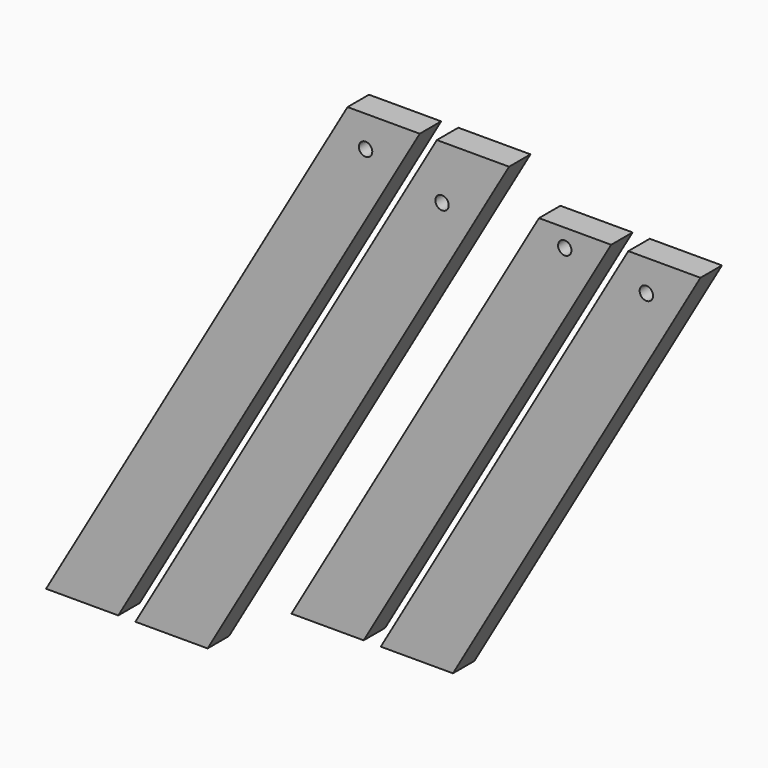
from build123d import *

# Parameters (mm, degrees)
F0_R      = 9.525
F1_DEPTH  = 38.1
F3_DEPTH  = 38.1
F4_R      = 9.525
F5_DEPTH  = 38.1
F6_R      = 9.525
F7_DEPTH  = 38.1
F9_DEPTH  = 38.1
F10_R     = 9.525
F11_DEPTH = 38.1


with BuildPart() as f1:
    # F0 (on Front) → F1 (new body)
    with BuildSketch(Plane.XZ):
        Polygon((-25.6632194655, 44.45), (-454.2882194655, -697.9502773942), (-351.6353416036, -697.9502773942), (76.9896583964, 44.45), align=None)
        Circle(F0_R, mode=Mode.SUBTRACT)
        Circle(F0_R)
    extrude(amount=-F1_DEPTH)


with BuildPart() as f2_1:
    # F2: copy of F1
    add(f1.part.moved(Location((127, 0, 0))))

    # F4 (on face) → F5 (cut)
    with BuildSketch(Plane.XZ):
        with Locations((108.6691289532, -31.75)):
            Circle(F4_R)
    extrude(amount=-F5_DEPTH, mode=Mode.SUBTRACT)


with BuildPart() as f1_1:
    add(f1.part)

    # F0 (on Front) → F3 (cut, through all)
    with BuildSketch(Plane.XZ):
        Circle(F0_R)
    extrude(amount=-F3_DEPTH, mode=Mode.SUBTRACT)


with BuildPart() as f7:
    # F6 (on Front) → F7 (new body)
    with BuildSketch(Plane.XZ):
        Polygon((246.5460331716, -6.0517536146), (-105.4066909264, -615.6517536146), (-2.7538130645, -615.6517536146), (349.1989110335, -6.0517536146), align=None)
        with Locations((283.2077752651, -31.4517536146)):
            Circle(F6_R, mode=Mode.SUBTRACT)
        with Locations((283.2077752651, -31.4517536146)):
            Circle(F6_R)
    extrude(amount=-F7_DEPTH)


with BuildPart() as f8_1:
    # F8: copy of F7
    add(f7.part.moved(Location((127, 0, 0))))

    # F10 (on face) → F11 (cut)
    with BuildSketch(Plane.XZ):
        with Locations((399.2092526371, -50.5017536146)):
            Circle(F10_R)
    extrude(amount=-F11_DEPTH, mode=Mode.SUBTRACT)


with BuildPart() as f7_1:
    add(f7.part)

    # F6 (on Front) → F9 (cut)
    with BuildSketch(Plane.XZ):
        with Locations((283.2077752651, -31.4517536146)):
            Circle(F6_R)
    extrude(amount=-F9_DEPTH, mode=Mode.SUBTRACT)


solid = Compound([f2_1.part, f1_1.part, f8_1.part, f7_1.part])
